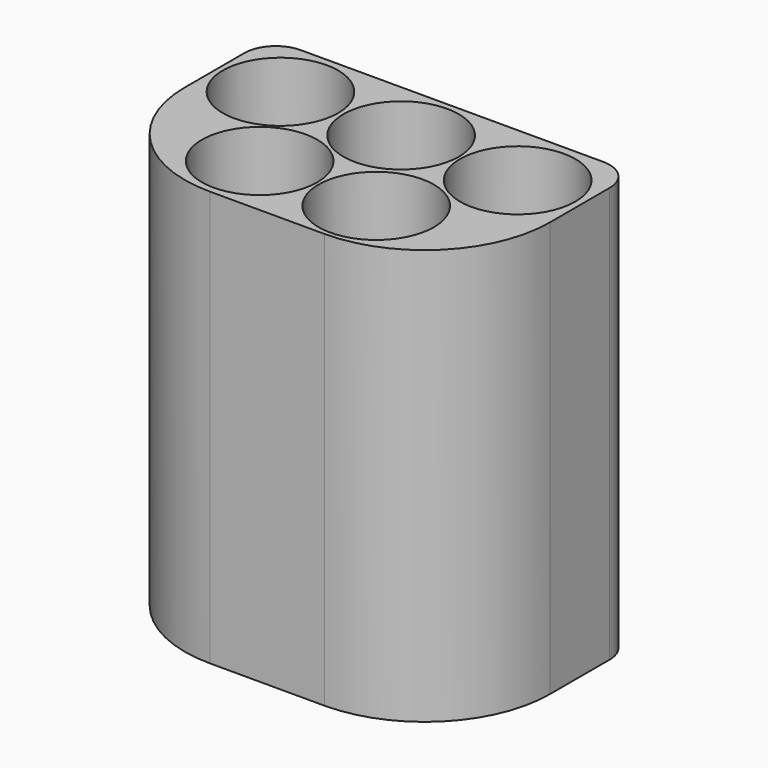
from build123d import *

# Parameters (mm, degrees)
F0_R     = 9.20886
F1_DEPTH = 66.3
F2_R     = 5


with BuildPart() as f1:
    # F0 (on Top) → F1 (new body)
    with BuildSketch(Plane.XY):
        with BuildLine():
            Line((13.70497, 36.908648), (-44.589408, 36.908648))
            Line((-44.589408, 36.908648), (-44.589408, 20))
            ThreePointArc((-44.589408, 20), (-38.731543, 5.857864), (-24.589408, 0))
            Line((-24.589408, 0), (-6.29503, 0))
            ThreePointArc((-6.29503, 0), (7.847106, 5.857864), (13.70497, 20))
            Line((13.70497, 20), (13.70497, 36.908648))
        make_face()
        with Locations((-24.90058, 10.326985)):
            Circle(F0_R, mode=Mode.SUBTRACT)
        with Locations((-5.98386, 9.940929)):
            Circle(F0_R, mode=Mode.SUBTRACT)
        with Locations((-34.551967, 26.541315)):
            Circle(F0_R, mode=Mode.SUBTRACT)
        with Locations((-15.442219, 26.734345)):
            Circle(F0_R, mode=Mode.SUBTRACT)
        with Locations((3.474499, 26.348287)):
            Circle(F0_R, mode=Mode.SUBTRACT)
    extrude(amount=F1_DEPTH)

    # F2
    f2_edges = [f1.edges().sort_by_distance(p)[0] for p in [
        (13.70497, 36.908648, 33.15),
        (-44.589408, 36.908648, 33.15),
    ]]
    fillet(f2_edges, radius=F2_R)


solid = f1.part
